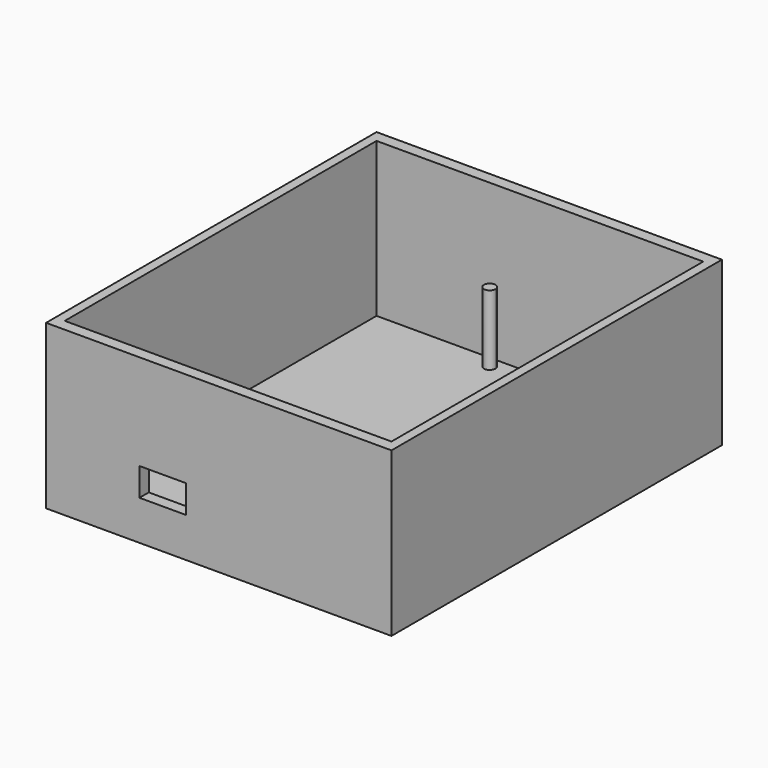
from build123d import *

# Parameters (mm, degrees)
F0_W     = 74
F0_H     = 88.5
F1_DEPTH = 34
F2_W     = 70
F2_H     = 83.5
F3_DEPTH = 33
F5_DEPTH = 15
F6_DEPTH = 1
F7_W     = 10
F7_H     = 6
F8_DEPTH = 25


with BuildPart() as f1:
    # F0 (on Top) → F1 (new body)
    with BuildSketch(Plane.XY):
        Rectangle(F0_W, F0_H)
    extrude(amount=F1_DEPTH)

    # F2 (on face) → F3 (cut)
    with BuildSketch(Plane.XY.offset(34)):
        Rectangle(F2_W, F2_H)
    extrude(amount=-F3_DEPTH, mode=Mode.SUBTRACT)

    # F4 (on face) → F5 (join)
    with BuildSketch(Plane.XY.offset(1)):
        with BuildLine():
            ThreePointArc((-7.5, 39.25), (-7.866117, 40.133883), (-8.75, 40.5))
            Line((-8.75, 40.5), (-8.75, 39.25))
            Line((-8.75, 39.25), (-10, 39.25))
            ThreePointArc((-10, 39.25), (-8.75, 38), (-7.5, 39.25))
        make_face()
        with BuildLine():
            Line((-8.75, 39.25), (-8.75, 40.5))
            ThreePointArc((-8.75, 40.5), (-9.633883, 40.133883), (-10, 39.25))
            Line((-10, 39.25), (-8.75, 39.25))
        make_face()
    extrude(amount=F5_DEPTH)

    # F0 (on Top) → F6 (join)
    with BuildSketch(Plane.XY):
        Rectangle(F0_W, F0_H)
        Rectangle(F0_W, F0_H)
    extrude(amount=-F6_DEPTH)

    # F7 (on face) → F8 (cut)
    with BuildSketch(Plane.XZ.offset(44.25)):
        with Locations((-12, 10.5)):
            Rectangle(F7_W, F7_H)
    extrude(amount=-F8_DEPTH, mode=Mode.SUBTRACT)


solid = f1.part
